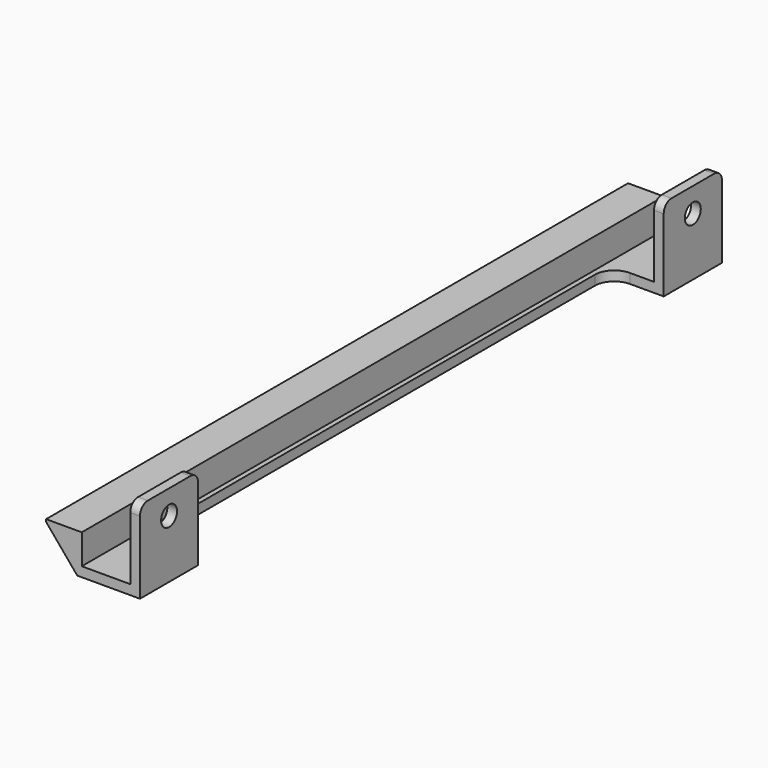
from build123d import *

# Parameters (mm, degrees)
F1_DEPTH = 75
F3_D     = 4.1
F2_W     = 60
F2_H     = 17
F4_DEPTH = 11
F5_R     = 4
F6_R     = 2


with BuildPart() as f1:
    # F0 (on Front) → F1 (new body)
    with BuildSketch(Plane.XZ):
        Polygon((-19.3604914132, 7.6604444312), (-12.9326153163, 0), (0, 0), (0, 17), (-2, 17), (-2, 2), (-12, 2), (-12, 8.1604444312), (-19.3604914132, 8.1604444312), align=None)
    extrude(amount=F1_DEPTH)

    # F3 (through all)
    with Locations(Plane.YZ):
        with Locations((-67.5, 12)):
            Hole(F3_D / 2)

    # F2 (on face) → F4 (cut)
    with BuildSketch(Plane.YZ):
        with Locations((-30, 8.5)):
            Rectangle(F2_W, F2_H)
    extrude(amount=-F4_DEPTH, mode=Mode.SUBTRACT)

    # F5
    f5_edges = [f1.edges().sort_by_distance(p)[0] for p in [
        (-11, -60, 1),
    ]]
    fillet(f5_edges, radius=F5_R)

    # F6
    f6_edges = [f1.edges().sort_by_distance(p)[0] for p in [
        (-1, -60, 17),
        (-1, -75, 17),
    ]]
    fillet(f6_edges, radius=F6_R)

    # F7: F1 across face


with BuildPart() as f1_1:
    add(f1.part)
    add(f1.part.mirror(Plane(origin=(-14.4459717542, 0, 4.9195457807), x_dir=(1, 0, 0), z_dir=(0, 1, 0))))


solid = f1_1.part
